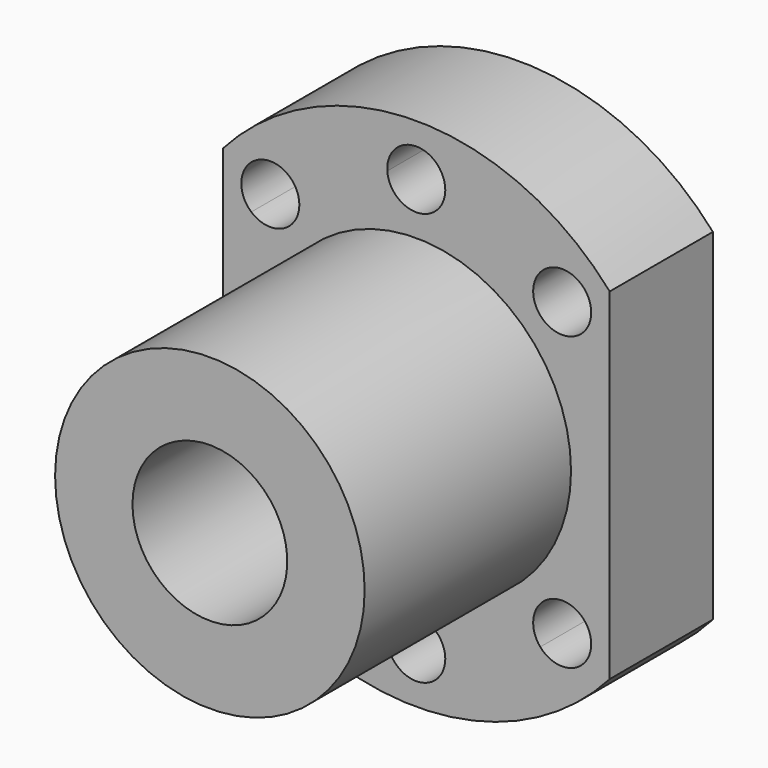
from build123d import *

# Parameters (mm, degrees)
F0_R     = 12
F1_DEPTH = 10
F2_DEPTH = 30
F3_D     = 12
F3_DEPTH = 50
F3_TIP   = 3.6051637142


with BuildPart() as f1:
    # F0 (on Front) → F1 (new body)
    with BuildSketch(Plane.XZ):
        with BuildLine():
            Line((9.6692045312, -3.2938710881), (9.6692045312, 7.8416576376))
            ThreePointArc((9.6692045312, 7.8416576376), (8.7102254474, 9.9452511488), (7.4580991057, 11.8886826932))
            ThreePointArc((7.4580991057, 11.8886826932), (4.3919227725, 11.9966115161), (4.2839939496, 15.0627878494))
            ThreePointArc((4.2839939496, 15.0627878494), (0.792139449, 17.055965795), (-3.0863641887, 18.1156901498))
            ThreePointArc((-3.0863641887, 18.1156901498), (-5.3307954688, 16.0238932748), (-7.575226749, 18.1156901498))
            ThreePointArc((-7.575226749, 18.1156901498), (-11.4537303867, 17.055965795), (-14.9455848872, 15.0627878494))
            ThreePointArc((-14.9455848872, 15.0627878494), (-14.5367720196, 14.3749809927), (-14.3945039678, 13.5876017738))
            ThreePointArc((-14.3945039678, 13.5876017738), (-15.7108735993, 11.5404490352), (-18.1196900434, 11.8886826932))
            ThreePointArc((-18.1196900434, 11.8886826932), (-19.371816385, 9.9452511488), (-20.3307954688, 7.8416576376))
            Line((-20.3307954688, 7.8416576376), (-20.3307954688, -3.2938710881))
            ThreePointArc((-20.3307954688, -3.2938710881), (-19.371816385, -5.3974645992), (-18.1196900434, -7.3408961436))
            ThreePointArc((-18.1196900434, -7.3408961436), (-15.7108735993, -6.9926624856), (-14.3945039678, -9.0398152242))
            ThreePointArc((-14.3945039678, -9.0398152242), (-14.5367720196, -9.8271944431), (-14.9455848872, -10.5150012998))
            ThreePointArc((-14.9455848872, -10.5150012998), (-11.4537303867, -12.5081792454), (-7.575226749, -13.5679036002))
            ThreePointArc((-7.575226749, -13.5679036002), (-5.3307954688, -11.4761067252), (-3.0863641887, -13.5679036002))
            ThreePointArc((-3.0863641887, -13.5679036002), (0.792139449, -12.5081792454), (4.2839939496, -10.5150012998))
            ThreePointArc((4.2839939496, -10.5150012998), (4.3919227725, -7.4488249665), (7.4580991057, -7.3408961436))
            ThreePointArc((7.4580991057, -7.3408961436), (8.7102254474, -5.3974645992), (9.6692045312, -3.2938710881))
        make_face()
        with Locations((-5.3307954688, 2.2738932748)):
            Circle(F0_R, mode=Mode.SUBTRACT)
        with BuildLine():
            Line((9.6692045312, 7.8416576376), (9.6692045312, 15.5026498301))
            ThreePointArc((9.6692045312, 15.5026498301), (-5.3307954688, 22.2738932748), (-20.3307954688, 15.5026498301))
            Line((-20.3307954688, 15.5026498301), (-20.3307954688, 7.8416576376))
            ThreePointArc((-20.3307954688, 7.8416576376), (-19.371816385, 9.9452511488), (-18.1196900434, 11.8886826932))
            ThreePointArc((-18.1196900434, 11.8886826932), (-18.2354942255, 15.1785920314), (-14.9455848872, 15.0627878494))
            ThreePointArc((-14.9455848872, 15.0627878494), (-11.4537303867, 17.055965795), (-7.575226749, 18.1156901498))
            ThreePointArc((-7.575226749, 18.1156901498), (-5.4099460206, 20.5225006638), (-3.0807954688, 18.2738932748))
            ThreePointArc((-3.0807954688, 18.2738932748), (-3.0821880798, 18.194742723), (-3.0863641887, 18.1156901498))
            ThreePointArc((-3.0863641887, 18.1156901498), (0.792139449, 17.055965795), (4.2839939496, 15.0627878494))
            ThreePointArc((4.2839939496, 15.0627878494), (6.770292249, 15.695333722), (8.2329130301, 13.5876017738))
            ThreePointArc((8.2329130301, 13.5876017738), (8.0300657687, 12.6539714053), (7.4580991057, 11.8886826932))
            ThreePointArc((7.4580991057, 11.8886826932), (8.7102254474, 9.9452511488), (9.6692045312, 7.8416576376))
        make_face()
        with BuildLine():
            ThreePointArc((-20.3307954688, -10.9548632805), (-5.3307954688, -17.7261067252), (9.6692045312, -10.9548632805))
            Line((9.6692045312, -10.9548632805), (9.6692045312, -3.2938710881))
            ThreePointArc((9.6692045312, -3.2938710881), (8.7102254474, -5.3974645992), (7.4580991057, -7.3408961436))
            ThreePointArc((7.4580991057, -7.3408961436), (8.0300657687, -8.1061848557), (8.2329130301, -9.0398152242))
            ThreePointArc((8.2329130301, -9.0398152242), (6.770292249, -11.1475471725), (4.2839939496, -10.5150012998))
            ThreePointArc((4.2839939496, -10.5150012998), (0.792139449, -12.5081792454), (-3.0863641887, -13.5679036002))
            ThreePointArc((-3.0863641887, -13.5679036002), (-3.0821880798, -13.6469561734), (-3.0807954688, -13.7261067252))
            ThreePointArc((-3.0807954688, -13.7261067252), (-5.4099460206, -15.9747141143), (-7.575226749, -13.5679036002))
            ThreePointArc((-7.575226749, -13.5679036002), (-11.4537303867, -12.5081792454), (-14.9455848872, -10.5150012998))
            ThreePointArc((-14.9455848872, -10.5150012998), (-18.2354942255, -10.6308054819), (-18.1196900434, -7.3408961436))
            ThreePointArc((-18.1196900434, -7.3408961436), (-19.371816385, -5.3974645992), (-20.3307954688, -3.2938710881))
            Line((-20.3307954688, -3.2938710881), (-20.3307954688, -10.9548632805))
        make_face()
        with Locations((-5.3307954688, 2.2738932748)):
            Circle(F0_R)
    extrude(amount=F1_DEPTH)

    # F0 (on Front) → F2 (join)
    with BuildSketch(Plane.XZ):
        with Locations((-5.3307954688, 2.2738932748)):
            Circle(F0_R)
    extrude(amount=F2_DEPTH)

    # F3
    with Locations(Plane(origin=(0, 0, 0), x_dir=(1, 0, 0), z_dir=(0, 1, 0))):
        with Locations((-5.3307954688, -2.2738932748)):
            Hole(F3_D / 2, depth=F3_DEPTH)
            with Locations((0, 0, -(F3_DEPTH + F3_TIP / 2))):  # 118° drill point
                Cone(0, F3_D / 2, F3_TIP, mode=Mode.SUBTRACT)


solid = f1.part
